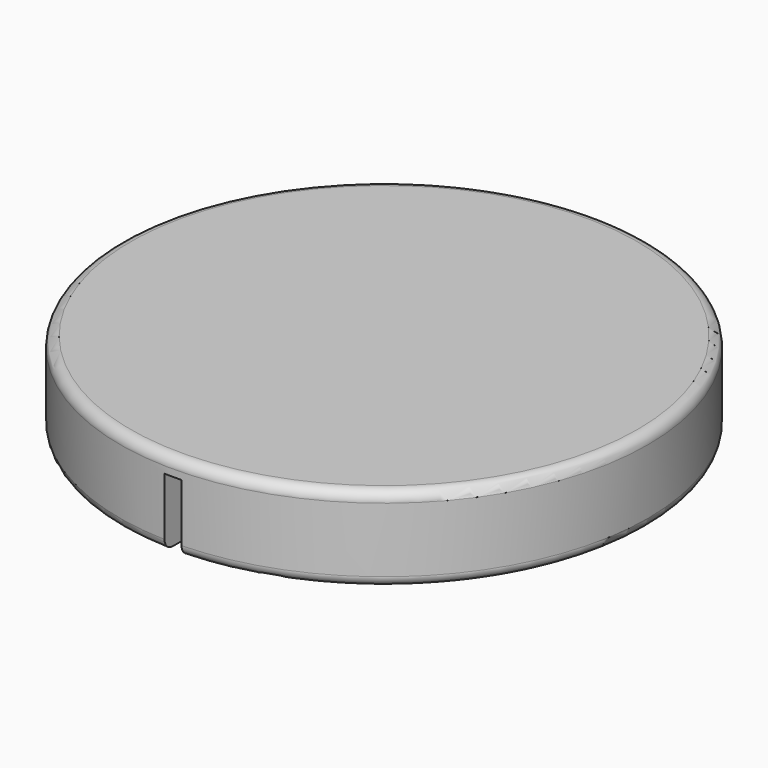
from build123d import *

# Parameters (mm, degrees)
SKETCH_R        = 77.5
PAD_DEPTH       = 25
FILLET_R        = 3
SKETCH001_R     = 65
POCKET_DEPTH    = 20
SKETCH002_W     = 5
SKETCH002_H     = 20
POCKET001_DEPTH = 15
FILLET001_R     = 3


with BuildPart() as part:
    # Sketch → Pad (new body)
    with BuildSketch(Plane.XY):
        Circle(SKETCH_R)
    extrude(amount=PAD_DEPTH)

    # Fillet
    fillet_edges = [part.edges().sort_by_distance(p)[0] for p in [
        (-77.5, 0, 25),
    ]]
    fillet(fillet_edges, radius=FILLET_R)

    # Sketch001 → Pocket (cut)
    with BuildSketch(Plane.XY):
        Circle(SKETCH001_R)
    extrude(amount=POCKET_DEPTH, mode=Mode.SUBTRACT)

    # Sketch002 → Pocket001 (cut)
    with BuildSketch(Plane.XZ.offset(78)):
        with Locations((0, 10)):
            Rectangle(SKETCH002_W, SKETCH002_H)
    extrude(amount=-POCKET001_DEPTH, mode=Mode.SUBTRACT)

    # Fillet001
    fillet001_edges = [part.edges().sort_by_distance(p)[0] for p in [
        (55.677644, -53.909647, 0),
        (-53.909647, 55.677644, 0),
    ]]
    fillet(fillet001_edges, radius=FILLET001_R)


solid = part.part
